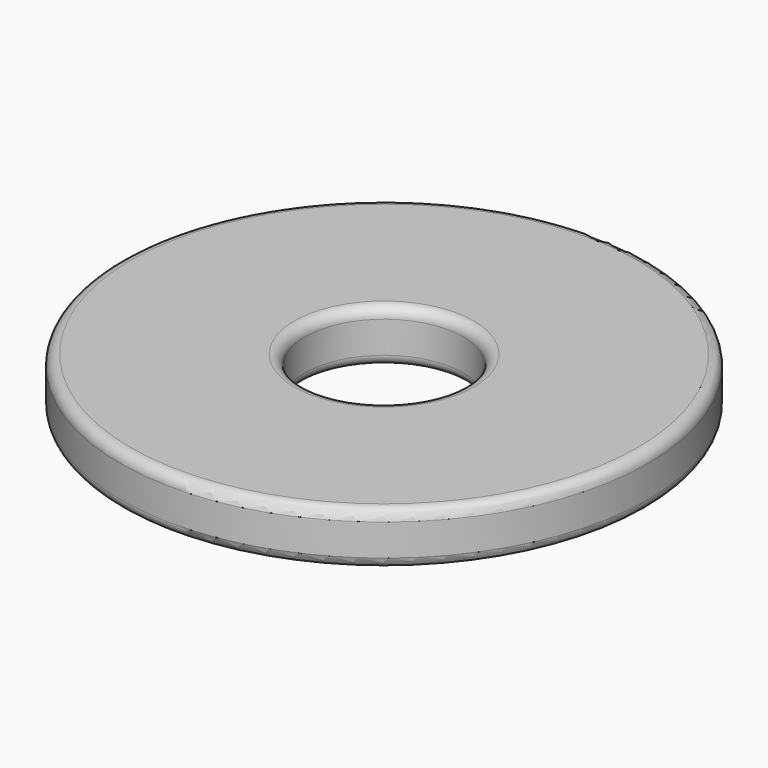
from build123d import *

# Parameters (mm, degrees)
F1_R     = 5
F1_R_2   = 1.5
F2_DEPTH = 1
F3_R     = 0.2


with BuildPart() as f2:
    # F1 (on offset) → F2 (new body)
    with BuildSketch(Plane.XY):
        Circle(F1_R)
        Circle(F1_R_2, mode=Mode.SUBTRACT)
    extrude(amount=F2_DEPTH)

    # F3
    f3_edges = [f2.edges().sort_by_distance(p)[0] for p in [
        (-5, 0, 1),
        (-1.5, 0, 1),
        (-5, 0, 0),
        (-1.5, 0, 0),
    ]]
    fillet(f3_edges, radius=F3_R)


solid = f2.part
